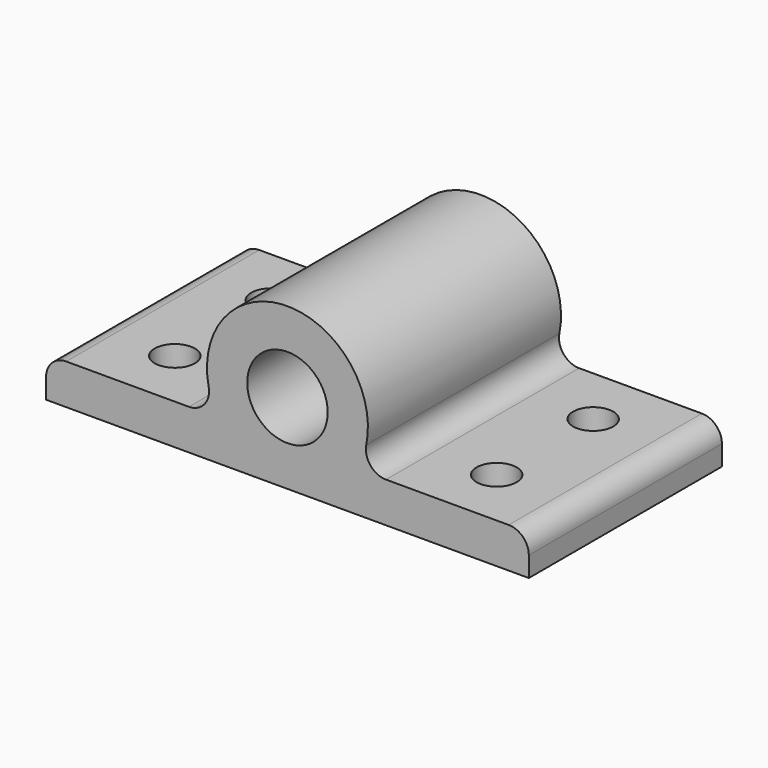
from build123d import *

# Parameters (mm, degrees)
F0_R     = 1
F1_DEPTH = 6
F2_R     = 0.5
F3_DEPTH = 4.001
F4_R     = 0.5


with BuildPart() as f1:
    # F0 (on Front) → F1 (new body)
    with BuildSketch(Plane.XZ):
        with BuildLine():
            Line((0, 1), (0, 0))
            Line((0, 0), (12, 0))
            Line((12, 0), (12, 1))
            Line((12, 1), (7.732051, 1))
            ThreePointArc((7.732051, 1), (6, 4), (4.267949, 1))
            Line((4.267949, 1), (0, 1))
        make_face()
        with Locations((6, 2)):
            Circle(F0_R, mode=Mode.SUBTRACT)
    extrude(amount=F1_DEPTH)

    # F2 (on face) → F3 (cut, through all)
    with BuildSketch(Plane(origin=(0, 0, 0), x_dir=(1, 0, 0), z_dir=(0, 0, -1))):
        with Locations((10, 1.5)):
            Circle(F2_R)
        with Locations((10, 4.5)):
            Circle(F2_R)
        with Locations((2, 4.5)):
            Circle(F2_R)
        with Locations((2, 1.5)):
            Circle(F2_R)
    extrude(amount=-F3_DEPTH, mode=Mode.SUBTRACT)

    # F4
    f4_edges = [f1.edges().sort_by_distance(p)[0] for p in [
        (0, -3, 1),
        (12, -3, 1),
        (7.732051, -3, 1),
        (4.267949, -3, 1),
    ]]
    fillet(f4_edges, radius=F4_R)


solid = f1.part
